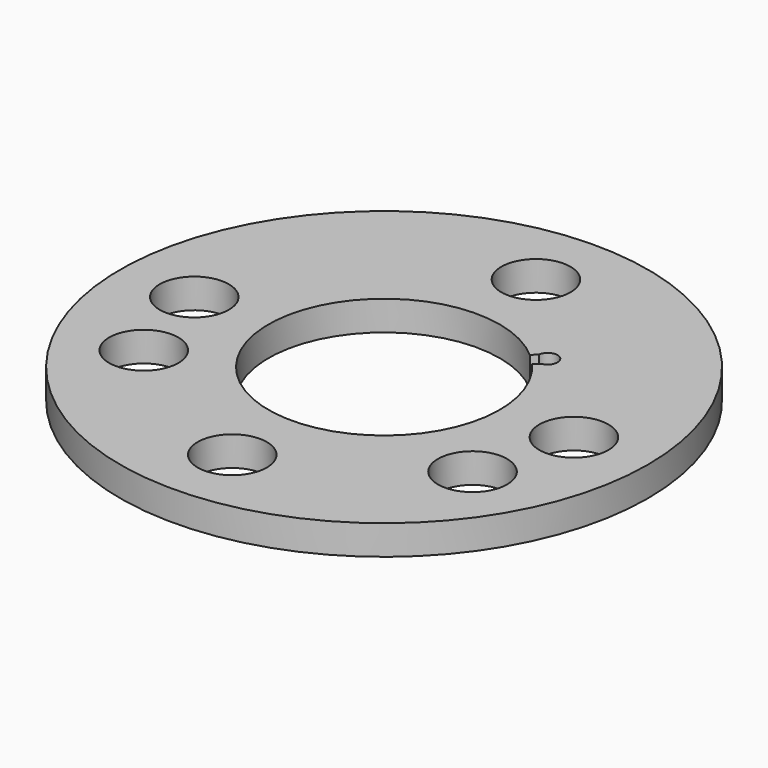
from build123d import *

# Parameters (mm, degrees)
CYLINDER_R     = 26.7
CYLINDER_DEPTH = 3
SKETCH_R       = 3.5
POCKET_DEPTH   = 3


with BuildPart() as part:
    # Cylinder → Cylinder (new body)
    with BuildSketch(Plane.XY):
        Circle(CYLINDER_R)
    extrude(amount=CYLINDER_DEPTH)

    # Sketch → Pocket (cut)
    with BuildSketch(Plane.XY.offset(3)):
        with Locations((0, 19.2)):
            Circle(SKETCH_R)
        with Locations((16.6277, -9.6)):
            Circle(SKETCH_R)
        with Locations((-16.6277, -9.6)):
            Circle(SKETCH_R)
        with Locations((0, -19.2)):
            Circle(SKETCH_R)
        with Locations((-19.2, 0)):
            Circle(SKETCH_R)
        with Locations((19.2, 0)):
            Circle(SKETCH_R)
        with BuildLine():
            ThreePointArc((7.688102, 8.819472), (-8.273149, -8.273149), (8.819472, 7.688102))
            Line((8.819472, 7.688102), (9.333811, 8.202441))
            ThreePointArc((9.333811, 8.202441), (9.899497, 9.899497), (8.202441, 9.333811))
            Line((7.688102, 8.819472), (8.202441, 9.333811))
        make_face()
    extrude(amount=-POCKET_DEPTH, mode=Mode.SUBTRACT)


solid = part.part
